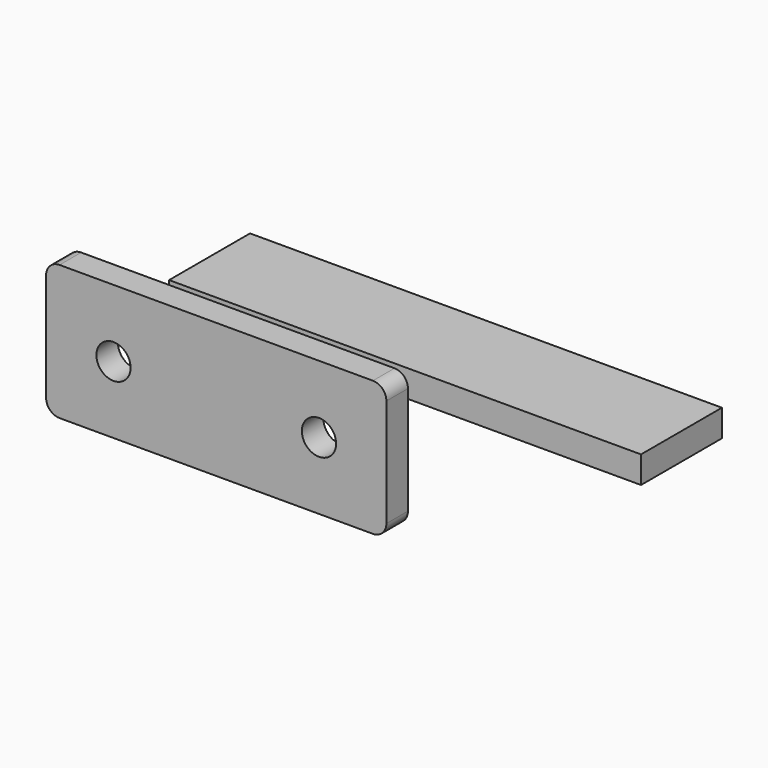
from build123d import *

# Parameters (mm, degrees)
F0_R     = 1.27
F1_DEPTH = 2
F2_W     = 35
F2_H     = 7.5
F3_DEPTH = 2


with BuildPart() as f1:
    # F0 (on Front) → F1 (new body)
    with BuildSketch(Plane.XZ):
        with BuildLine():
            Line((4.276212, 7.946066), (-18.963788, 7.946066))
            ThreePointArc((-18.963788, 7.946066), (-19.670895, 7.653172), (-19.963788, 6.946066))
            Line((-19.963788, 6.946066), (-19.963788, -1.053934))
            ThreePointArc((-19.963788, -1.053934), (-19.670895, -1.761041), (-18.963788, -2.053934))
            Line((-18.963788, -2.053934), (4.276212, -2.053934))
            ThreePointArc((4.276212, -2.053934), (4.983319, -1.761041), (5.276212, -1.053934))
            Line((5.276212, -1.053934), (5.276212, 6.946066))
            ThreePointArc((5.276212, 6.946066), (4.983319, 7.653172), (4.276212, 7.946066))
        make_face()
        with Locations((-14.963788, 2.946066)):
            Circle(F0_R, mode=Mode.SUBTRACT)
        with Locations((0.276212, 2.946066)):
            Circle(F0_R, mode=Mode.SUBTRACT)
    extrude(amount=F1_DEPTH)


with BuildPart() as f3:
    # F2 (on Top) → F3 (new body)
    with BuildSketch(Plane.XY):
        with Locations((-2.460024, 3.75)):
            Rectangle(F2_W, F2_H)
    extrude(amount=F3_DEPTH)


with BuildPart() as f3_1:
    # F4: moved
    add(f3.part.moved(Location((0, 9.4, 0))))


solid = Compound([f1.part, f3_1.part])
